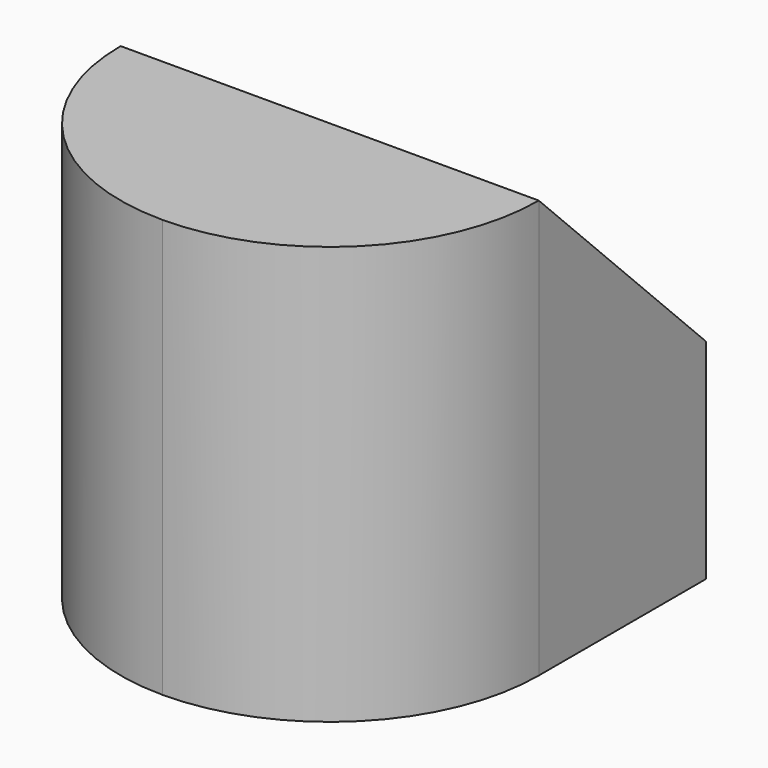
from build123d import *

# Parameters (mm, degrees)
F1_DEPTH = 10
F2_SIZE  = 5


with BuildPart() as f1:
    # F0 (on Top) → F1 (new body)
    with BuildSketch(Plane.XY):
        with BuildLine():
            Line((10, 10), (0, 10))
            Line((0, 10), (0, 5))
            ThreePointArc((0, 5), (1.464466, 1.464466), (5, 0))
            ThreePointArc((5, 0), (8.535534, 1.464466), (10, 5))
            Line((10, 5), (10, 10))
        make_face()
    extrude(amount=F1_DEPTH)

    # F2
    f2_edges = [f1.edges().sort_by_distance(p)[0] for p in [
        (5, 10, 10),
    ]]
    chamfer(f2_edges, length=F2_SIZE)


solid = f1.part
